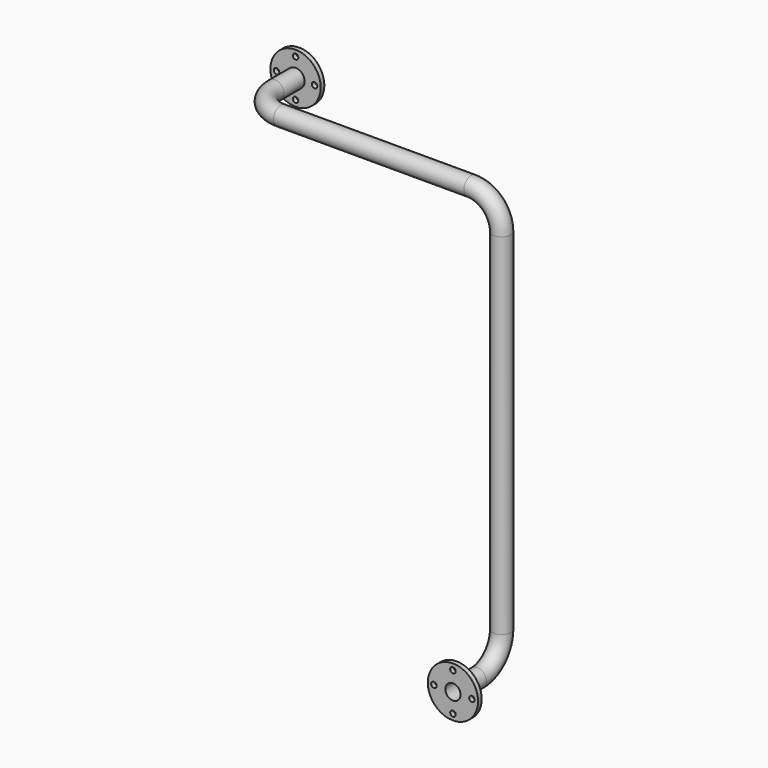
from build123d import *

# Parameters (mm, degrees)
F3_R      = 30
F3_R_2    = 25
F7_R      = 82.5
F7_R_2    = 9
F7_R_3    = 30
F8_DEPTH  = 15
F9_R      = 82.5
F9_R_2    = 9
F9_R_3    = 25
F10_DEPTH = 15


with BuildPart() as f6:
    # F6: sweep along a path in F1, F4, F5
    with BuildLine(Plane.YZ) as f6_path:
        Line((0, 0), (100, 0))
        ThreePointArc((100, 0), (170.7106781187, 29.2893218813), (200, 100))
        Line((200, 100), (200, 1250))
    with BuildLine(Plane.XZ.offset(-200)) as f6_path_2:
        ThreePointArc((0, 1250), (-29.2893218813, 1320.7106781187), (-100, 1350))
    with BuildLine(Plane.XY.offset(1350)) as f6_path_3:
        Line((-100, 200), (-725, 200))
        ThreePointArc((-725, 200), (-795.7106781187, 229.2893218813), (-825, 300))
        Line((-825, 300), (-825, 400))
    # F3 (on Front) → F6 (sweep)
    with BuildSketch(Plane.XZ):
        Circle(F3_R)
        Circle(F3_R_2, mode=Mode.SUBTRACT)
    sweep(path=f6_path.line + f6_path_2.line + f6_path_3.line)

    # F7 (on face) → F8 (join)
    with BuildSketch(Plane.XZ):
        Circle(F7_R)
        with Locations((0, -62.5)):
            Circle(F7_R_2, mode=Mode.SUBTRACT)
        with Locations((-62.5, 0)):
            Circle(F7_R_2, mode=Mode.SUBTRACT)
        Circle(F7_R_3, mode=Mode.SUBTRACT)
        with Locations((62.5, 0)):
            Circle(F7_R_2, mode=Mode.SUBTRACT)
        with Locations((0, 62.5)):
            Circle(F7_R_2, mode=Mode.SUBTRACT)
    extrude(amount=-F8_DEPTH)

    # F9 (on face) → F10 (join)
    with BuildSketch(Plane(origin=(0, 400, 0), x_dir=(-1, 0, 0), z_dir=(0, 1, 0))):
        with Locations((825, 1350)):
            Circle(F9_R)
        with Locations((825, 1287.5)):
            Circle(F9_R_2, mode=Mode.SUBTRACT)
        with Locations((762.5, 1350)):
            Circle(F9_R_2, mode=Mode.SUBTRACT)
        with Locations((825, 1350)):
            Circle(F9_R_3, mode=Mode.SUBTRACT)
        with Locations((887.5, 1350)):
            Circle(F9_R_2, mode=Mode.SUBTRACT)
        with Locations((825, 1412.5)):
            Circle(F9_R_2, mode=Mode.SUBTRACT)
    extrude(amount=-F10_DEPTH)


solid = f6.part
